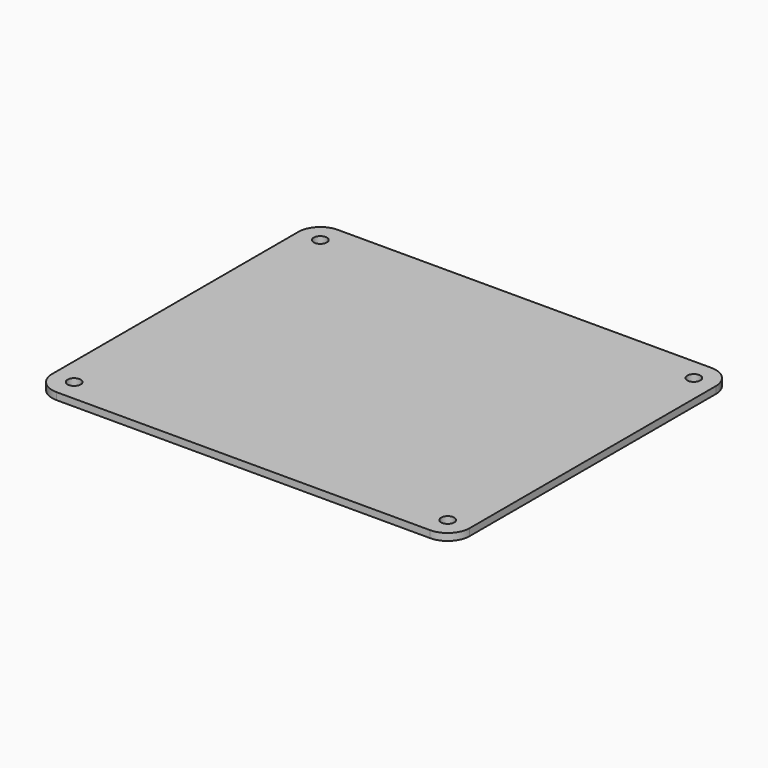
from build123d import *

# Parameters (mm, degrees)
SKETCH_R  = 1.5
PAD_DEPTH = 1.6


with BuildPart() as part:
    # Sketch → Pad (new body)
    with BuildSketch(Plane.XY):
        with BuildLine():
            ThreePointArc((-42.5, 40), (-46.035534, 38.535534), (-47.5, 35))
            Line((-47.5, -35), (-47.5, 35))
            ThreePointArc((-47.5, -35), (-46.035534, -38.535534), (-42.5, -40))
            Line((42.5, -40), (-42.5, -40))
            ThreePointArc((42.5, -40), (46.035534, -38.535534), (47.5, -35))
            Line((47.5, 35), (47.5, -35))
            ThreePointArc((47.5, 35), (46.035534, 38.535534), (42.5, 40))
            Line((-42.5, 40), (42.5, 40))
        make_face()
        with Locations((-42.5, 35)):
            Circle(SKETCH_R, mode=Mode.SUBTRACT)
        with Locations((-42.5, -35)):
            Circle(SKETCH_R, mode=Mode.SUBTRACT)
        with Locations((42.5, -35)):
            Circle(SKETCH_R, mode=Mode.SUBTRACT)
        with Locations((42.5, 35)):
            Circle(SKETCH_R, mode=Mode.SUBTRACT)
    extrude(amount=PAD_DEPTH)


solid = part.part
